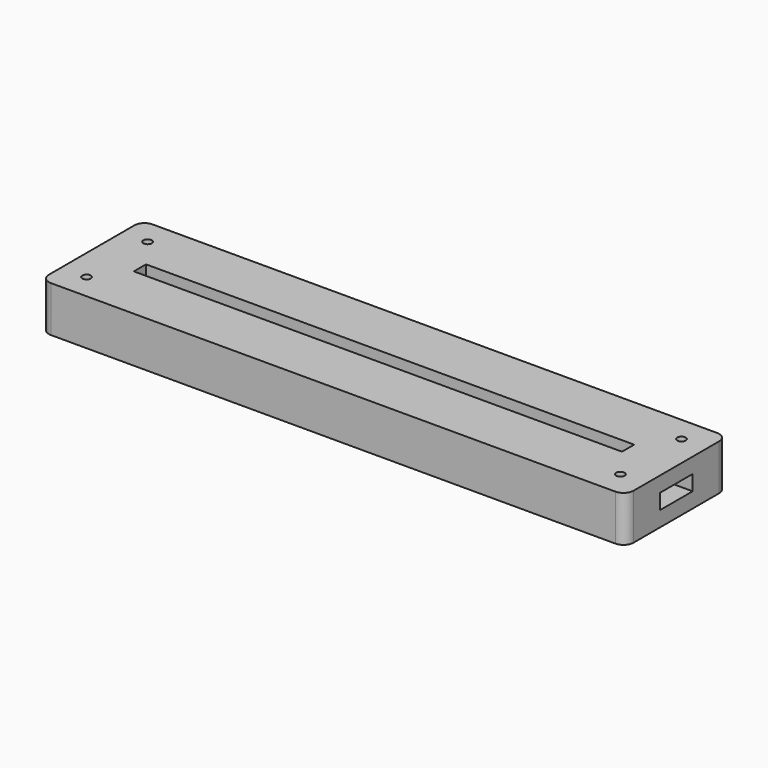
from build123d import *

# Parameters (mm, degrees)
SKETCH_W              = 115
SKETCH_H              = 25
PAD_DEPTH             = 3
PAD001_DEPTH          = 3
SKETCH002_W           = 115
SKETCH002_H           = 25
SKETCH002_W_2         = 96
SKETCH002_H_2         = 3
PAD002_DEPTH          = 3
SKETCH003_R           = 0.825
POCKET_DEPTH          = 245.060315
POLARPATTERN_COUNT    = 2
POLARPATTERN001_COUNT = 2
POLARPATTERN002_COUNT = 2
FILLET_R              = 2


with BuildPart() as part:
    # Sketch → Pad (new body)
    with BuildSketch(Plane.XY):
        Rectangle(SKETCH_W, SKETCH_H)
    extrude(amount=PAD_DEPTH)

    # Sketch001 (on Face6 of Pad) → Pad001 (join)
    with BuildSketch(Plane.XY.offset(3)):
        Polygon((-57.5, 12.5), (57.5, 12.5), (57.5, 4), (50, 4), (50, 5), (-50, 5), (-50, 4), (-57.5, 4), align=None)
        Polygon((-57.5, -12.5), (57.5, -12.5), (57.5, -4), (50, -4), (50, -5), (-50, -5), (-50, -4), (-57.5, -4), align=None)
    extrude(amount=PAD001_DEPTH)

    # Sketch002 (on Face12 of Pad001) → Pad002 (join)
    with BuildSketch(Plane.XY.offset(6)):
        Rectangle(SKETCH002_W, SKETCH002_H)
        Rectangle(SKETCH002_W_2, SKETCH002_H_2, mode=Mode.SUBTRACT)
    extrude(amount=PAD002_DEPTH)

    # Sketch003 (on Face26 of Pad002) → Pocket (cut, through all)
    with BuildSketch(Plane.XY.offset(9)):
        with Locations((-52.5, 7.5)):
            Circle(SKETCH003_R)
    pocket = extrude(amount=-POCKET_DEPTH, mode=Mode.SUBTRACT)

    # PolarPattern: Pocket ×2 about axis
    polarpattern_axis = Axis((0, 0, 0), (0, 1, 0))
    for i in range(1, POLARPATTERN_COUNT):
        add(pocket.rotate(polarpattern_axis, i * 360 / POLARPATTERN_COUNT), mode=Mode.SUBTRACT)

    # PolarPattern001: Pocket ×2 about axis
    polarpattern001_axis = Axis((0, 0, 0), (1, 0, 0))
    for i in range(1, POLARPATTERN001_COUNT):
        add(pocket.rotate(polarpattern001_axis, i * 360 / POLARPATTERN001_COUNT), mode=Mode.SUBTRACT)

    # PolarPattern002: Pocket ×2 about axis
    polarpattern002_axis = Axis((0, 0, 9), (0, 0, 1))
    for i in range(1, POLARPATTERN002_COUNT):
        add(pocket.rotate(polarpattern002_axis, i * 360 / POLARPATTERN002_COUNT), mode=Mode.SUBTRACT)

    # Fillet
    fillet_edges = [part.edges().sort_by_distance(p)[0] for p in [
        (57.5, 12.5, 7.5),
        (57.5, 12.5, 4.5),
        (57.5, 12.5, 1.5),
        (57.5, -12.5, 7.5),
        (-57.5, 12.5, 7.5),
        (-57.5, -12.5, 7.5),
    ]]
    fillet(fillet_edges, radius=FILLET_R)


solid = part.part
